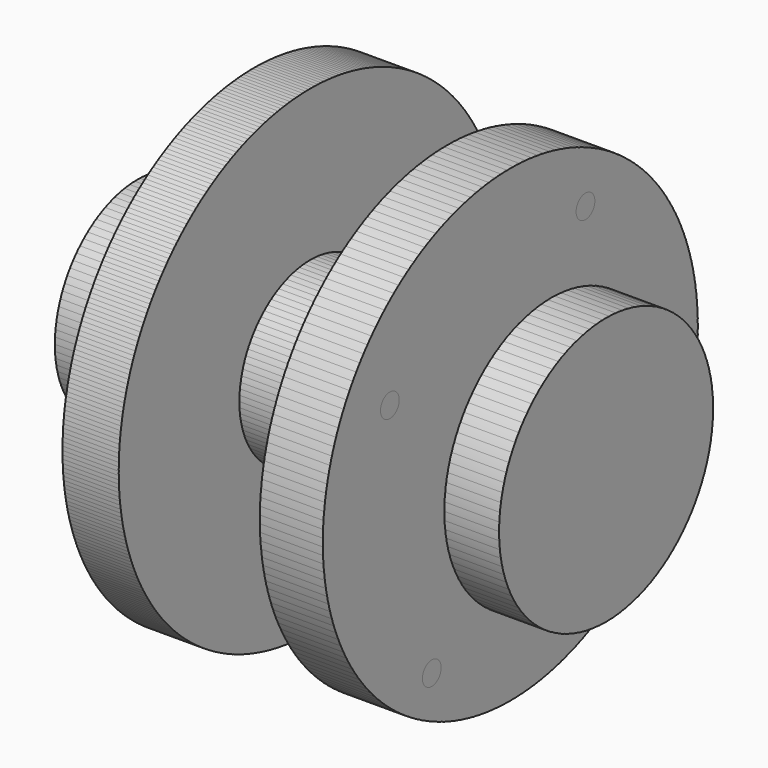
from build123d import *

# Parameters (mm, degrees)
F3_D     = 5
F3_DEPTH = 54.2769161434
F4_COUNT = 6


with BuildPart() as f1:
    # F0 (on Front) → F1 (revolve)
    with BuildSketch(Plane.XZ):
        Polygon((-45.7240838566, 22.0210062182), (-45.7240838566, 0), (54.2759161434, 0), (54.2759161434, 28.5561491961), (42.6014345533, 28.5561491961), (42.6014345533, 10.6769883229), (33.8468006154, 10.6769883229), (33.8468006154, 50.011139826), (20.4066095737, 50.011139826), (20.4066095737, 18.9383933167), (-8.8165691947, 18.9383933167), (-8.8165691947, 51.1208792617), (-20.8165691947, 51.1208792617), (-20.8165691947, 5.4981962307), (-35.6131111219, 5.4981962307), (-35.6131111219, 22.0210062182), align=None)
    revolve(axis=Axis((4.2759161434, 0, 0), (-1, 0, 0)))

    # F3 (through all, one way)
    with BuildSketch(Plane(origin=(0, 0, 0), x_dir=(0, 1, 0), z_dir=(-1, 0, 0))):
        with Locations((0, -37.106949836), (40.0820970535, 0), (-41.9127345085, 0), (0, 42.3493385315)):
            Circle(F3_D / 2)
    extrude(amount=-F3_DEPTH, mode=Mode.SUBTRACT)


with BuildPart() as f4_1:
    # F4: instance of F1
    add(f1.part.rotate(Axis((-20.8165691947, 0, 0), (-1, 0, 0)), 1 * 360 / F4_COUNT))


with BuildPart() as f4_2:
    # F4: instance of F1
    add(f1.part.rotate(Axis((-20.8165691947, 0, 0), (-1, 0, 0)), 2 * 360 / F4_COUNT))


with BuildPart() as f4_3:
    # F4: instance of F1
    add(f1.part.rotate(Axis((-20.8165691947, 0, 0), (-1, 0, 0)), 3 * 360 / F4_COUNT))


with BuildPart() as f4_4:
    # F4: instance of F1
    add(f1.part.rotate(Axis((-20.8165691947, 0, 0), (-1, 0, 0)), 4 * 360 / F4_COUNT))


with BuildPart() as f4_5:
    # F4: instance of F1
    add(f1.part.rotate(Axis((-20.8165691947, 0, 0), (-1, 0, 0)), 5 * 360 / F4_COUNT))


solid = Compound([f1.part, f4_1.part, f4_2.part, f4_3.part, f4_4.part, f4_5.part])
